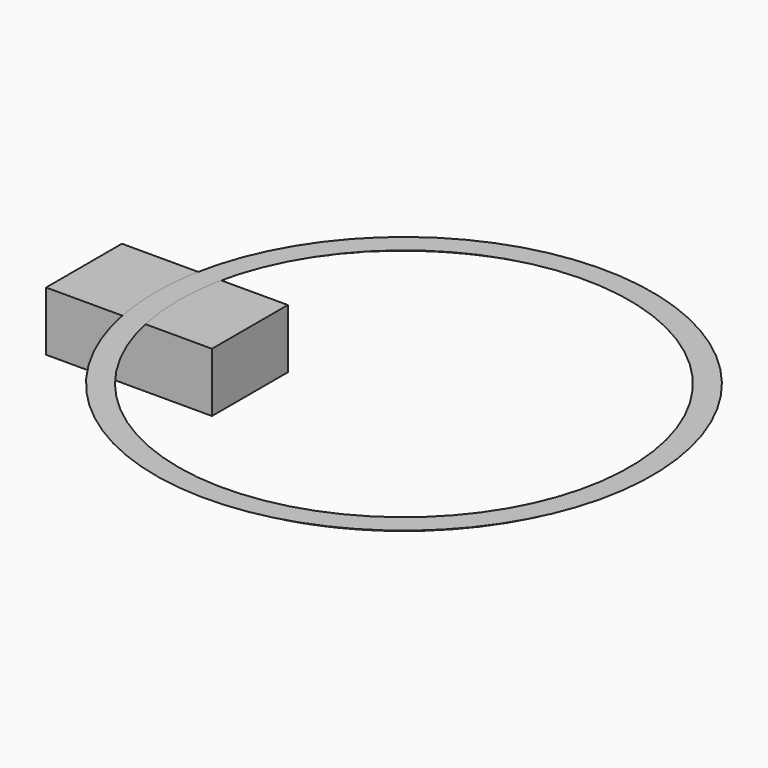
from build123d import *

# Parameters (mm, degrees)
F0_W     = 70
F0_H     = 40
F1_DEPTH = 25


with BuildPart() as f1:
    # F0 (on Top) → F1 (new body)
    with BuildSketch(Plane.XY):
        Rectangle(F0_W, F0_H)
    extrude(amount=-F1_DEPTH)


with BuildPart() as f3:
    # F2 (on Front) → F3 (revolve)
    with BuildSketch(Plane.XZ):
        with BuildLine():
            Line((-3.535534, 0), (-4.778175, 0))
            ThreePointArc((-4.778175, 0), (-3.630124, -0.228361), (-2.656854, -0.87868))
            Line((-2.656854, -0.87868), (-3.535534, 0))
        make_face()
        with BuildLine():
            Line((0, 0), (-3.535534, 0))
            Line((-3.535534, 0), (-2.656854, -0.87868))
            Line((-2.656854, -0.87868), (-2.12132, -1.414214))
            ThreePointArc((-2.12132, -1.414214), (0, -2.292893), (2.12132, -1.414214))
            Line((2.12132, -1.414214), (2.656854, -0.87868))
            ThreePointArc((2.656854, -0.87868), (3.630124, -0.228361), (4.778175, 0))
            Line((4.778175, 0), (0.080616, 0))
            Line((0.080616, 0), (0, 0))
        make_face()
    revolve(axis=Axis((100, 0, -14.267068), (0, 0, -1)))


solid = Compound([f1.part, f3.part])
